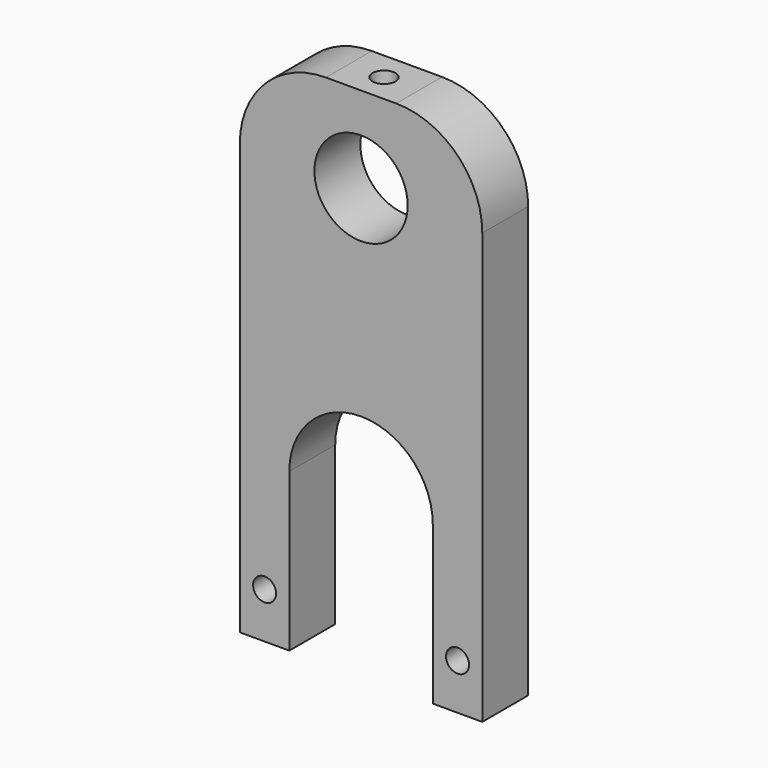
from build123d import *

# Parameters (mm, degrees)
F0_R     = 2
F0_R_2   = 8.125
F2_DEPTH = 5
F3_START = 55
F1_R     = 2
F3_DEPTH = 7.501


with BuildPart() as f2:
    # F0 (on Front) → F2 (new body, symmetric)
    with BuildSketch(Plane.XZ):
        with BuildLine():
            ThreePointArc((21.125, 47.5), (16.7316017178, 58.1066017178), (6.125, 62.5))
            Line((6.125, 62.5), (-6.125, 62.5))
            ThreePointArc((-6.125, 62.5), (-16.7316017178, 58.1066017178), (-21.125, 47.5))
            Line((-21.125, 47.5), (-21.125, -27.5))
            Line((-21.125, -27.5), (-12.5, -27.5))
            Line((-12.5, -27.5), (-12.5, 0))
            ThreePointArc((-12.5, 0), (0, 12.5), (12.5, 0))
            Line((12.5, 0), (12.5, -27.5))
            Line((12.5, -27.5), (21.125, -27.5))
            Line((21.125, -27.5), (21.125, 47.5))
        make_face()
        with Locations((-16.8125, -19.5)):
            Circle(F0_R, mode=Mode.SUBTRACT)
        with Locations((16.8125, -19.5)):
            Circle(F0_R, mode=Mode.SUBTRACT)
        with Locations((0, 47.5)):
            Circle(F0_R_2, mode=Mode.SUBTRACT)
    extrude(amount=F2_DEPTH, both=True)

    # F1 (on Top) → F3 (cut)
    with BuildSketch(Plane.XY.offset(F3_START)):
        Circle(F1_R)
    extrude(amount=F3_DEPTH, mode=Mode.SUBTRACT)


solid = f2.part
